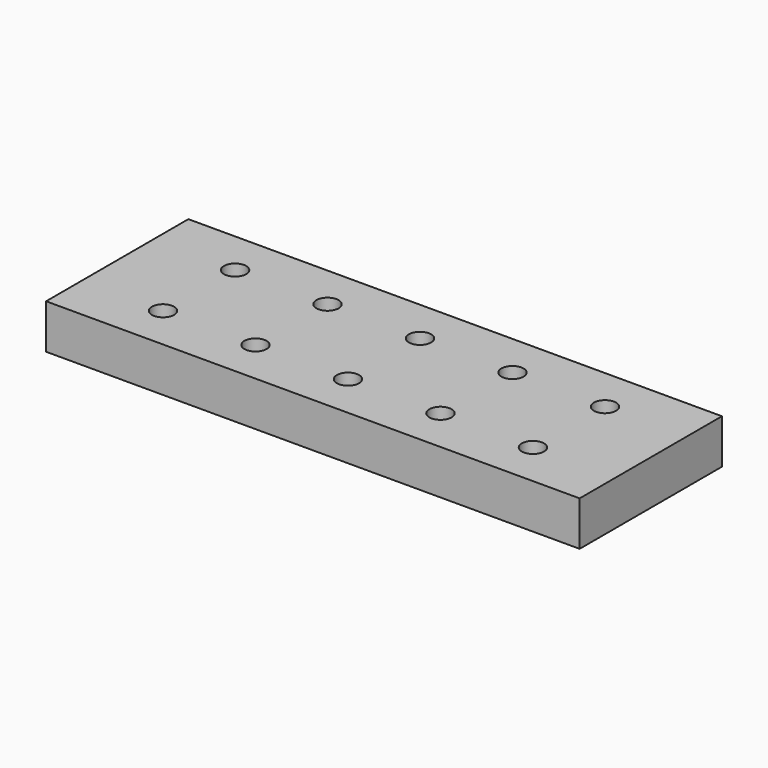
from build123d import *

# Parameters (mm, degrees)
F0_W     = 304.8
F0_H     = 101.6
F0_R     = 6.35
F1_DEPTH = 25.4


with BuildPart() as f1:
    # F0 (on Top) → F1 (new body)
    with BuildSketch(Plane.XY):
        with Locations((152.4, 50.8)):
            Rectangle(F0_W, F0_H)
        with Locations((46.482, 25.4)):
            Circle(F0_R, mode=Mode.SUBTRACT)
        with Locations((99.314, 25.4)):
            Circle(F0_R, mode=Mode.SUBTRACT)
        with Locations((152.146, 25.4)):
            Circle(F0_R, mode=Mode.SUBTRACT)
        with Locations((204.978, 25.4)):
            Circle(F0_R, mode=Mode.SUBTRACT)
        with Locations((257.81, 25.4)):
            Circle(F0_R, mode=Mode.SUBTRACT)
        with Locations((46.99, 76.2)):
            Circle(F0_R, mode=Mode.SUBTRACT)
        with Locations((99.822, 76.2)):
            Circle(F0_R, mode=Mode.SUBTRACT)
        with Locations((152.654, 76.2)):
            Circle(F0_R, mode=Mode.SUBTRACT)
        with Locations((205.486, 76.2)):
            Circle(F0_R, mode=Mode.SUBTRACT)
        with Locations((258.318, 76.2)):
            Circle(F0_R, mode=Mode.SUBTRACT)
    extrude(amount=F1_DEPTH)


solid = f1.part
